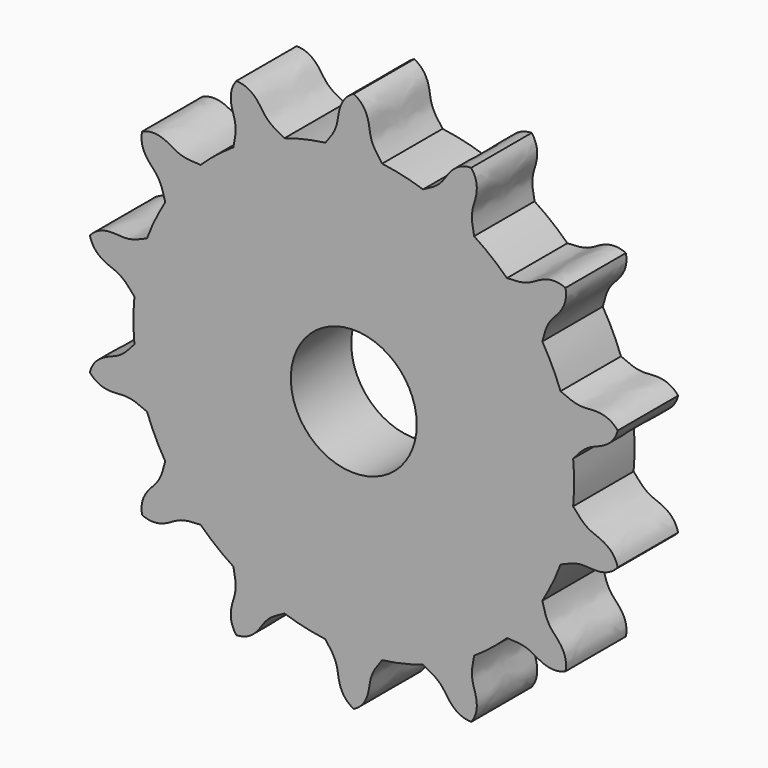
from build123d import *

# Parameters (mm, degrees)
F1_DEPTH = 3
F3_COUNT = 14
F4_R     = 2.5
F5_DEPTH = 3


with BuildPart() as f1:
    # F0 (on Front) → F1 (new body)
    with BuildSketch(Plane.XZ):
        with BuildLine():
            add(Edge.make_bspline(
                [(-1.125, 8.6773771959), (-0.7, 9.2234754838), (-0.6486890223, 9.6124048493), (-0.5, 10.4880884817), (0, 10.75)],
                knots=[0, 0, 0, 0, 0.4967173091, 1, 1, 1, 1], degree=3))
            ThreePointArc((-1.125, 8.6773771959), (0, -8.75), (1.125, 8.6773771959))
            add(Edge.make_bspline(
                [(1.125, 8.6773771959), (0.7, 9.2234754838), (0.6486890223, 9.6124048493), (0.5, 10.4880884817), (0, 10.75)],
                knots=[0, 0, 0, 0, 0.4967173091, 1, 1, 1, 1], degree=3))
        make_face()
    extrude(amount=F1_DEPTH)

    # F3: F1 ×14 about axis
    f3_axis = Axis((0, 2.5461101905, 0), (0, 1, 0))


with BuildPart() as f1_1:
    add(f1.part)
    for i in range(1, F3_COUNT):
        add(f1.part.rotate(f3_axis, i * 360 / F3_COUNT))

    # F4 (on face) → F5 (cut, through all)
    with BuildSketch(Plane.XZ.offset(3)):
        Circle(F4_R)
    extrude(amount=-F5_DEPTH, mode=Mode.SUBTRACT)


solid = f1_1.part
